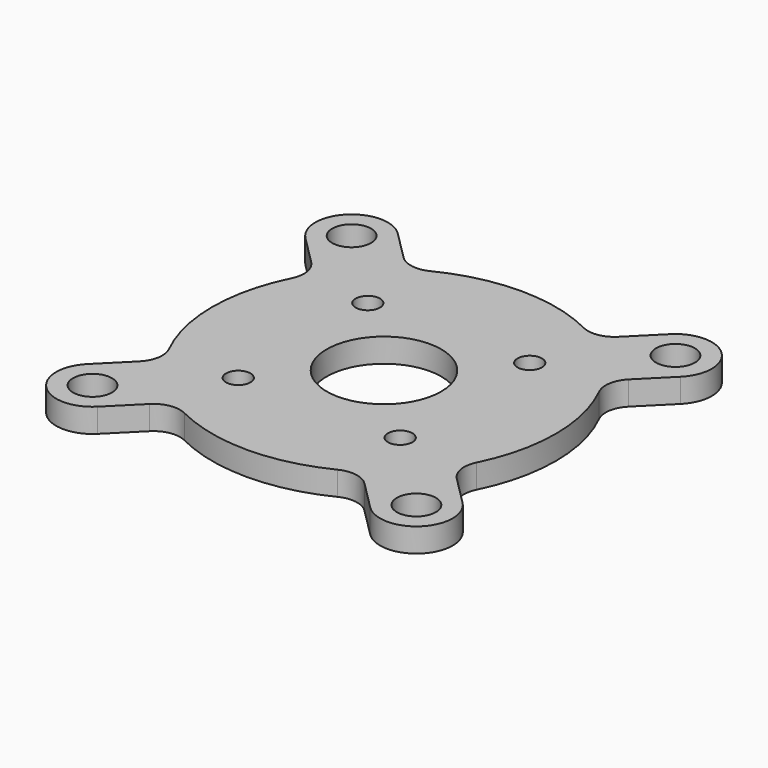
from build123d import *

# Parameters (mm, degrees)
F0_R     = 2.55
F0_R_2   = 1.6
F0_R_3   = 7.5
F1_DEPTH = 3.14


with BuildPart() as f1:
    # F0 (on Top) → F1 (new body)
    with BuildSketch(Plane.XY):
        with BuildLine():
            ThreePointArc((-17.854446, 24.571961), (-24.571961, 24.571961), (-24.571961, 17.854446))
            Line((-24.571961, 17.854446), (-20.793457, 14.075942))
            ThreePointArc((-20.793457, 14.075942), (-19.813844, 12.163673), (-20.136055, 10.039386))
            ThreePointArc((-20.136055, 10.039386), (-22.5, 0), (-20.136055, -10.039386))
            ThreePointArc((-20.136055, -10.039386), (-19.813844, -12.163673), (-20.793457, -14.075942))
            Line((-20.793457, -14.075942), (-24.571961, -17.854446))
            ThreePointArc((-24.571961, -17.854446), (-24.571961, -24.571961), (-17.854446, -24.571961))
            Line((-17.854446, -24.571961), (-14.075942, -20.793457))
            ThreePointArc((-14.075942, -20.793457), (-12.163673, -19.813844), (-10.039386, -20.136055))
            ThreePointArc((-10.039386, -20.136055), (0, -22.5), (10.039386, -20.136055))
            ThreePointArc((10.039386, -20.136055), (12.163673, -19.813844), (14.075942, -20.793457))
            Line((14.075942, -20.793457), (17.854446, -24.571961))
            ThreePointArc((17.854446, -24.571961), (24.571961, -24.571961), (24.571961, -17.854446))
            Line((24.571961, -17.854446), (20.793457, -14.075942))
            ThreePointArc((20.793457, -14.075942), (19.813844, -12.163673), (20.136055, -10.039386))
            ThreePointArc((20.136055, -10.039386), (22.5, 0), (20.136055, 10.039386))
            ThreePointArc((20.136055, 10.039386), (19.813844, 12.163673), (20.793457, 14.075942))
            Line((20.793457, 14.075942), (24.571961, 17.854446))
            ThreePointArc((24.571961, 17.854446), (24.571961, 24.571961), (17.854446, 24.571961))
            Line((17.854446, 24.571961), (14.075942, 20.793457))
            ThreePointArc((14.075942, 20.793457), (12.163673, 19.813844), (10.039386, 20.136055))
            ThreePointArc((10.039386, 20.136055), (0, 22.5), (-10.039386, 20.136055))
            ThreePointArc((-10.039386, 20.136055), (-12.163673, 19.813844), (-14.075942, 20.793457))
            Line((-14.075942, 20.793457), (-17.854446, 24.571961))
        make_face()
        with Locations((-21.213203, -21.213203)):
            Circle(F0_R, mode=Mode.SUBTRACT)
        with Locations((-10.606602, -10.606602)):
            Circle(F0_R_2, mode=Mode.SUBTRACT)
        with Locations((21.213203, -21.213203)):
            Circle(F0_R, mode=Mode.SUBTRACT)
        with Locations((10.606602, -10.606602)):
            Circle(F0_R_2, mode=Mode.SUBTRACT)
        Circle(F0_R_3, mode=Mode.SUBTRACT)
        with Locations((-10.606602, 10.606602)):
            Circle(F0_R_2, mode=Mode.SUBTRACT)
        with Locations((-21.213203, 21.213203)):
            Circle(F0_R, mode=Mode.SUBTRACT)
        with Locations((10.606602, 10.606602)):
            Circle(F0_R_2, mode=Mode.SUBTRACT)
        with Locations((21.213203, 21.213203)):
            Circle(F0_R, mode=Mode.SUBTRACT)
    extrude(amount=F1_DEPTH)


solid = f1.part
